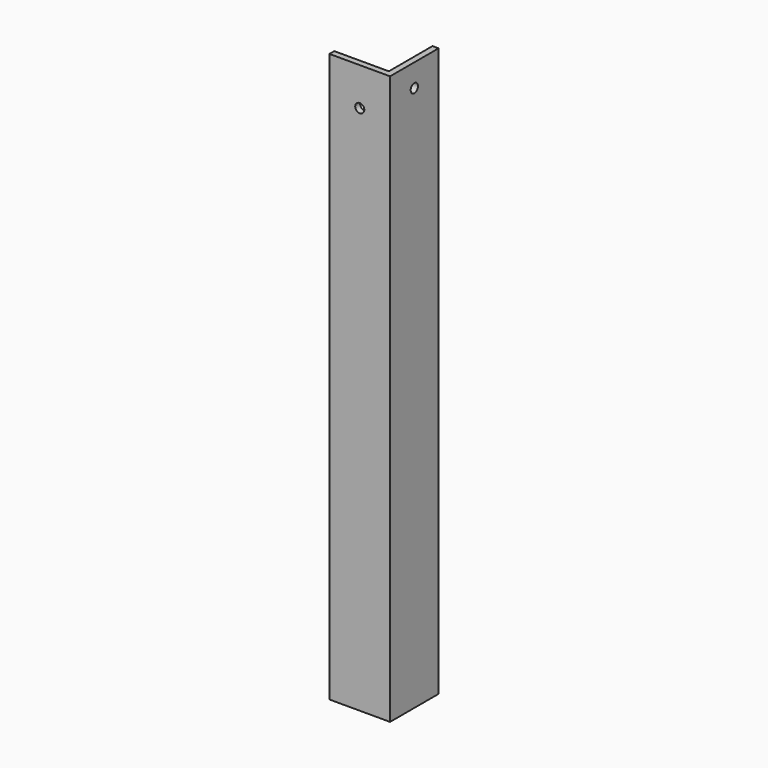
from build123d import *

# Parameters (mm, degrees)
CYLINDER003_R          = 6
CYLINDER003_DEPTH      = 900
CYLINDER003_ROLL_ANGLE = -90
CYLINDER_R             = 6
CYLINDER_DEPTH         = 1300
CYLINDER_PITCH_ANGLE   = 90
BOX005_W               = 80
BOX005_H               = 80
BOX005_DEPTH           = 750
BOX004_W               = 80
BOX004_H               = 80
BOX004_DEPTH           = 750


with BuildPart() as cylinder003:
    # Cylinder003 → Cylinder003 (new body)
    with BuildSketch(Plane.XY):
        Circle(CYLINDER003_R)
    extrude(amount=CYLINDER003_DEPTH)


with BuildPart() as cylinder003_1:
    # Cylinder003 roll: moved
    add(cylinder003.part.rotate(Axis((0, 0, 0), (1, 0, 0)), CYLINDER003_ROLL_ANGLE))


with BuildPart() as cylinder003_2:
    # Cylinder003 placement: moved
    add(cylinder003_1.part.moved(Location((1240, -10, 700))))


with BuildPart() as cylinder:
    # Cylinder → Cylinder (new body)
    with BuildSketch(Plane.XY):
        Circle(CYLINDER_R)
    extrude(amount=CYLINDER_DEPTH)


with BuildPart() as cylinder_1:
    # Cylinder pitch: moved
    add(cylinder.part.rotate(Axis((0, 0, 0), (0, 1, 0)), CYLINDER_PITCH_ANGLE))


with BuildPart() as cylinder_2:
    # Cylinder placement: moved
    add(cylinder_1.part.moved(Location((-10, 40, 720))))


with BuildPart() as cube005:
    # Box005 → Box005 (new body)
    with BuildSketch(Plane(origin=(1192, 8, 0), x_dir=(1, 0, 0), z_dir=(0, 0, 1))):
        with Locations((40, 40)):
            Rectangle(BOX005_W, BOX005_H)
    extrude(amount=BOX005_DEPTH)


with BuildPart() as cut011:
    # Box004 → Box004 (new body)
    with BuildSketch(Plane(origin=(1200, 0, 0), x_dir=(1, 0, 0), z_dir=(0, 0, 1))):
        with Locations((40, 40)):
            Rectangle(BOX004_W, BOX004_H)
    extrude(amount=BOX004_DEPTH)

    # Cut002: cut Cube005
    add(cube005.part, mode=Mode.SUBTRACT)

    # Cut005: cut Cylinder
    add(cylinder_2.part, mode=Mode.SUBTRACT)

    # Cut011: cut Cylinder003
    add(cylinder003_2.part, mode=Mode.SUBTRACT)


solid = cut011.part
